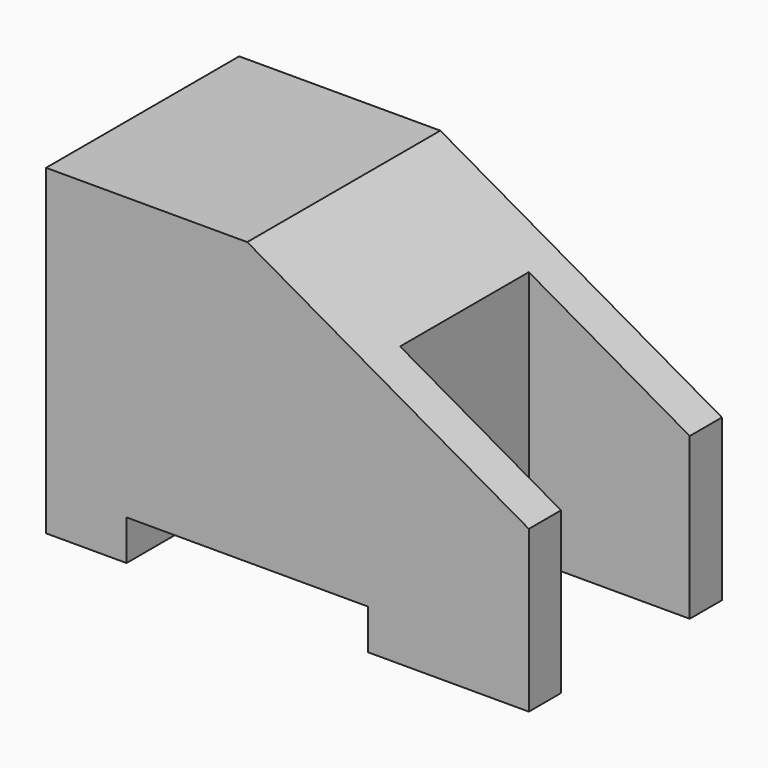
from build123d import *

# Parameters (mm, degrees)
F1_DEPTH = 15
F2_W     = 10
F2_H     = 10
F3_DEPTH = 25


with BuildPart() as f1:
    # F0 (on Front) → F1 (new body)
    with BuildSketch(Plane.XZ):
        Polygon((-14.026718, 20), (-14.026718, 0), (-9.026718, 0), (-9.026718, 2.5), (5.973282, 2.5), (5.973282, 0), (15.973282, 0), (15.973282, 10), (-1.526718, 20), align=None)
    extrude(amount=F1_DEPTH)

    # F2 (on Top) → F3 (cut)
    with BuildSketch(Plane.XY):
        with Locations((10.973282, -7.5)):
            Rectangle(F2_W, F2_H)
    extrude(amount=F3_DEPTH, mode=Mode.SUBTRACT)


solid = f1.part
